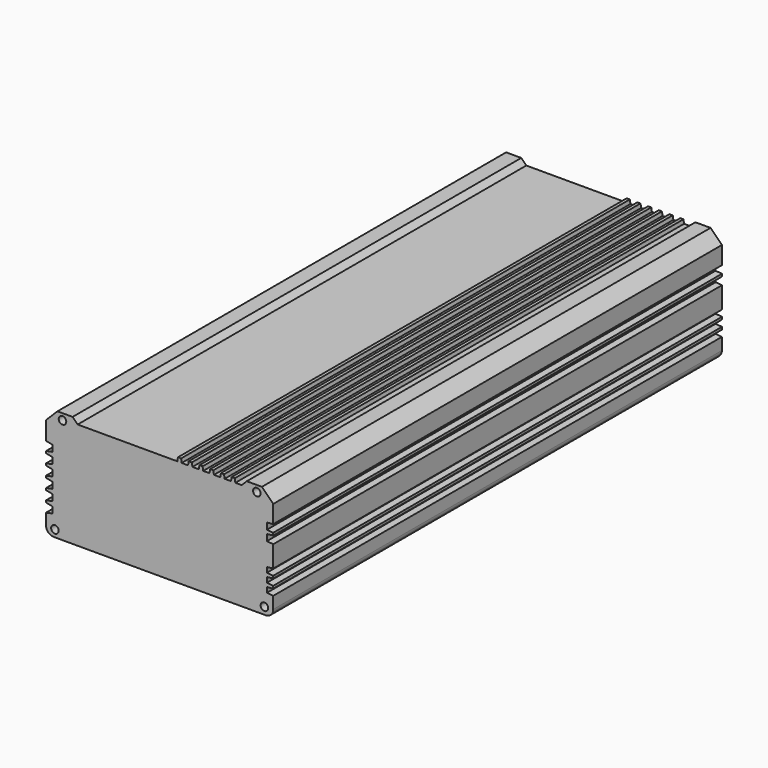
from build123d import *

# Parameters (mm, degrees)
F1_DEPTH = 111.1
F2_R     = 1.5
F3_DEPTH = 222.201


with BuildPart() as f1:
    # F0 (on Front) → F1 (new body, symmetric)
    with BuildSketch(Plane.XZ):
        with BuildLine():
            Line((29.75, 43.8), (28.5, 43.8))
            Line((28.5, 43.8), (28.25, 42.3))
            Line((28.25, 42.3), (25.75, 42.3))
            Line((25.75, 42.3), (25.5, 43.8))
            Line((25.5, 43.8), (24.25, 43.8))
            Line((24.25, 43.8), (24, 42.3))
            Line((24, 42.3), (21.5, 42.3))
            Line((21.5, 42.3), (21.25, 43.8))
            Line((21.25, 43.8), (20, 43.8))
            Line((20, 43.8), (19.75, 42.3))
            Line((19.75, 42.3), (17.25, 42.3))
            Line((17.25, 42.3), (17, 43.8))
            Line((17, 43.8), (15.75, 43.8))
            Line((15.75, 43.8), (15.5, 42.3))
            Line((15.5, 42.3), (13, 42.3))
            Line((13, 42.3), (12.75, 43.8))
            Line((12.75, 43.8), (11.5, 43.8))
            Line((11.5, 43.8), (11.25, 42.3))
            Line((11.25, 42.3), (8.75, 42.3))
            Line((8.75, 42.3), (8.5, 43.8))
            Line((8.5, 43.8), (7.25, 43.8))
            Line((7.25, 43.8), (7, 42.3))
            Line((7, 42.3), (-32.5, 42.3))
            Line((-32.5, 42.3), (-34.5, 44.3))
            Line((-34.5, 44.3), (-40.5, 44.3))
            Line((-40.5, 44.3), (-45, 39.8))
            Line((-45, 39.8), (-45, 32.5))
            Line((-45, 32.5), (-42.5, 32))
            Line((-42.5, 32), (-42.5, 29.5))
            Line((-42.5, 29.5), (-45, 29))
            Line((-45, 29), (-45, 28.2))
            Line((-45, 28.2), (-42.5, 27.7))
            Line((-42.5, 27.7), (-42.5, 25.2))
            Line((-42.5, 25.2), (-45, 24.7))
            Line((-45, 24.7), (-45, 23.9))
            Line((-45, 23.9), (-42.5, 23.4))
            Line((-42.5, 23.4), (-42.5, 20.9))
            Line((-42.5, 20.9), (-45, 20.4))
            Line((-45, 20.4), (-45, 19.6))
            Line((-45, 19.6), (-42.5, 19.1))
            Line((-42.5, 19.1), (-42.5, 16.6))
            Line((-42.5, 16.6), (-45, 16.1))
            Line((-45, 16.1), (-45, 15.3))
            Line((-45, 15.3), (-42.5, 14.8))
            Line((-42.5, 14.8), (-42.5, 12.3))
            Line((-42.5, 12.3), (-45, 11.8))
            Line((-45, 11.8), (-45, 11))
            Line((-45, 11), (-42.5, 10.5))
            Line((-42.5, 10.5), (-42.5, 8))
            Line((-42.5, 8), (-45, 7.5))
            Line((-45, 7.5), (-45, 2.75))
            ThreePointArc((-45, 2.75), (-44.041444, 0.79206), (-42.010435, 0))
            Line((-42.010435, 0), (42, 0))
            ThreePointArc((42, 0), (44.12132, 0.87868), (45, 3))
            Line((45, 3), (45, 7.75))
            Line((45, 7.75), (42.5, 8))
            Line((42.5, 8), (42.5, 10))
            Line((42.5, 10), (45, 10.25))
            Line((45, 10.25), (45, 11.25))
            Line((45, 11.25), (42.5, 11.5))
            Line((42.5, 11.5), (42.5, 13.5))
            Line((42.5, 13.5), (45, 13.75))
            Line((45, 13.75), (45, 14.75))
            Line((45, 14.75), (42.5, 15))
            Line((42.5, 15), (42.5, 17))
            Line((42.5, 17), (45, 17.25))
            Line((45, 17.25), (45, 25.75))
            Line((45, 25.75), (42.5, 26))
            Line((42.5, 26), (42.5, 28.5))
            Line((42.5, 28.5), (45, 28.75))
            Line((45, 28.75), (45, 29.75))
            Line((45, 29.75), (42.5, 30))
            Line((42.5, 30), (42.5, 32.5))
            Line((42.5, 32.5), (45, 32.75))
            Line((45, 32.75), (45, 39.8))
            Line((45, 39.8), (40.5, 44.3))
            Line((40.5, 44.3), (34.5, 44.3))
            Line((34.5, 44.3), (32.5, 42.3))
            Line((32.5, 42.3), (30, 42.3))
            Line((30, 42.3), (29.75, 43.8))
        make_face()
    extrude(amount=F1_DEPTH, both=True)

    # F2 (on face) → F3 (cut, through all)
    with BuildSketch(Plane.XZ.offset(111.1)):
        with Locations((-38.5, 41.8)):
            Circle(F2_R)
        with Locations((38.5, 41.8)):
            Circle(F2_R)
        with Locations((41.5, 2.8)):
            Circle(F2_R)
        with Locations((-41.5, 2.8)):
            Circle(F2_R)
    extrude(amount=-F3_DEPTH, mode=Mode.SUBTRACT)


solid = f1.part
